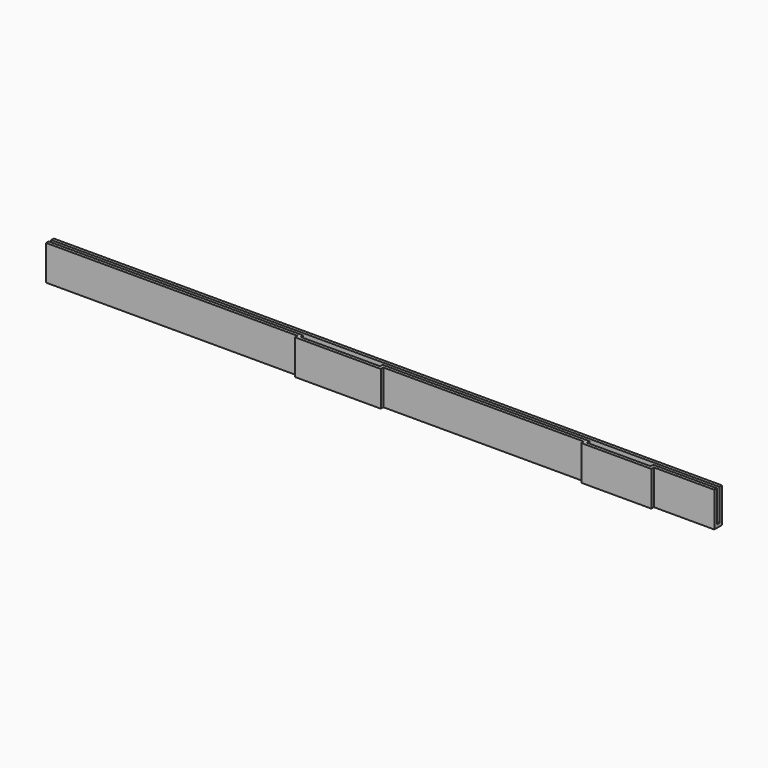
from build123d import *

# Parameters (mm, degrees)
F0_W     = 20
F0_H     = 1
F0_W_2   = 25
F1_DEPTH = 1
F0_W_3   = 210
F2_DEPTH = 11


with BuildPart() as f1:
    # F0 (on Top) → F1 (new body)
    with BuildSketch(Plane.XY):
        Polygon((105, -11), (-105, -11), (-105, -12), (-25, -12), (0, -12), (65, -12), (85, -12), (105, -12), align=None)
        with Locations((75, -12.5)):
            Rectangle(F0_W, F0_H)
        with Locations((-12.5, -12.5)):
            Rectangle(F0_W_2, F0_H)
    extrude(amount=F1_DEPTH)

    # F0 (on Top) → F2 (join)
    with BuildSketch(Plane.XY):
        with Locations((0, -10.5)):
            Rectangle(F0_W_3, F0_H)
        Polygon((-25, -13), (-26, -13), (-26, -14), (1, -14), (1, -13), (0, -13), align=None)
        Polygon((-25, -12), (-105, -12), (-105, -13), (-26, -13), (-25, -13), align=None)
        Polygon((65, -12), (0, -12), (0, -13), (1, -13), (64, -13), (65, -13), align=None)
        Polygon((86, -14), (86, -13), (85, -13), (65, -13), (64, -13), (64, -14), align=None)
        Polygon((105, -13), (105, -12), (85, -12), (85, -13), (86, -13), align=None)
    extrude(amount=F2_DEPTH)


solid = f1.part
